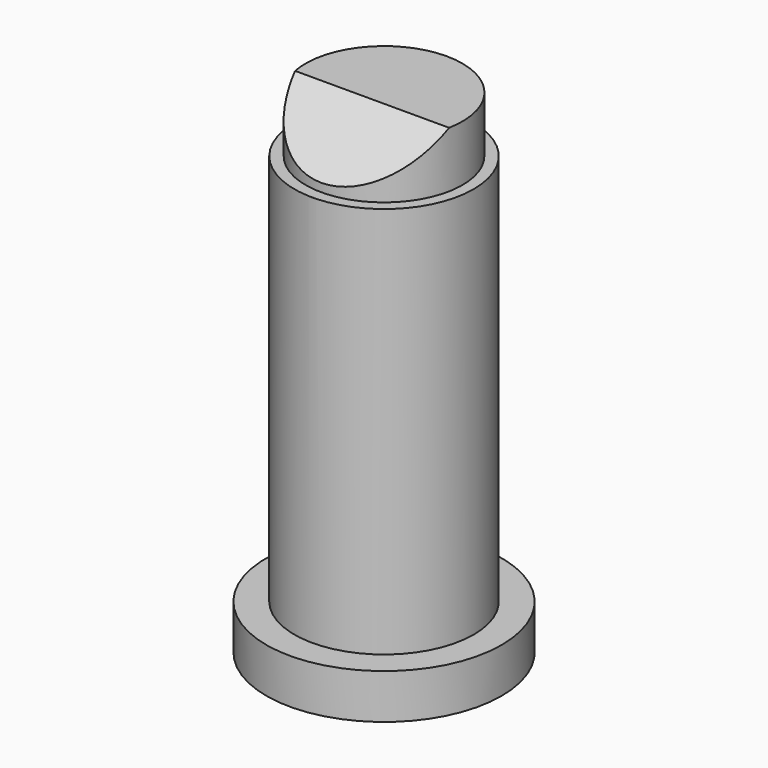
from build123d import *

# Parameters (mm, degrees)
F0_R          = 10.5
F1_DEPTH      = 4
F2_R          = 8
F3_DEPTH      = 39
F4_W          = 7
F4_H          = 5
F7_DEPTH      = 25
F7_DEPTH_BACK = 25


with BuildPart() as f1:
    # F0 (on Top) → F1 (new body)
    with BuildSketch(Plane.XY):
        Circle(F0_R)
    extrude(amount=F1_DEPTH)

    # F2 (on Top) → F3 (join)
    with BuildSketch(Plane.XY):
        Circle(F2_R)
    extrude(amount=F3_DEPTH)

    # F4 (on Right) → F5 (revolve)
    with BuildSketch(Plane.YZ):
        with Locations((3.5, 41.5)):
            Rectangle(F4_W, F4_H)
    revolve(axis=Axis((0, 0, 41.5), (0, 0, -1)))

    # F6 (on Right) → F7 (cut, two sides)
    with BuildSketch(Plane.YZ) as f7_sk:
        Polygon((0, 45), (-8, 45), (-8, 38.993425), align=None)
    extrude(amount=F7_DEPTH, mode=Mode.SUBTRACT)
    extrude(f7_sk.sketch, amount=-F7_DEPTH_BACK, mode=Mode.SUBTRACT)


solid = f1.part
